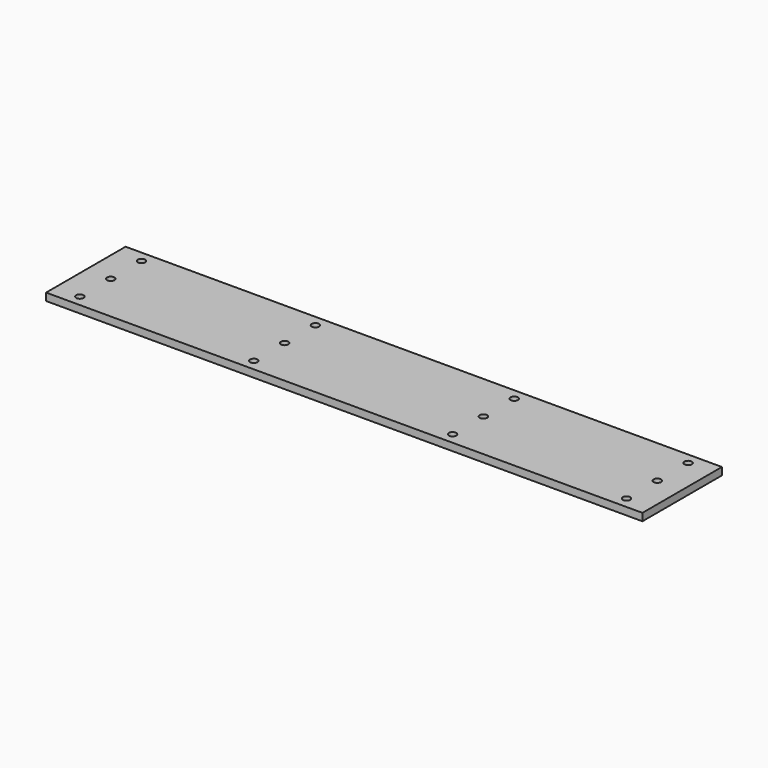
from build123d import *

# Parameters (mm, degrees)
SKETCH_W  = 240
SKETCH_H  = 40
SKETCH_R  = 1.5
PAD_DEPTH = 3


with BuildPart() as part:
    # Sketch → Pad (new body)
    with BuildSketch(Plane.XY):
        with Locations((120, -20)):
            Rectangle(SKETCH_W, SKETCH_H)
        with Locations((10, -4.5)):
            Circle(SKETCH_R, mode=Mode.SUBTRACT)
        with Locations((10, -20)):
            Circle(SKETCH_R, mode=Mode.SUBTRACT)
        with Locations((10, -35.5)):
            Circle(SKETCH_R, mode=Mode.SUBTRACT)
        with Locations((80, -4.5)):
            Circle(SKETCH_R, mode=Mode.SUBTRACT)
        with Locations((80, -20)):
            Circle(SKETCH_R, mode=Mode.SUBTRACT)
        with Locations((80, -35.5)):
            Circle(SKETCH_R, mode=Mode.SUBTRACT)
        with Locations((160, -4.5)):
            Circle(SKETCH_R, mode=Mode.SUBTRACT)
        with Locations((160, -20)):
            Circle(SKETCH_R, mode=Mode.SUBTRACT)
        with Locations((160, -35.5)):
            Circle(SKETCH_R, mode=Mode.SUBTRACT)
        with Locations((230, -4.5)):
            Circle(SKETCH_R, mode=Mode.SUBTRACT)
        with Locations((230, -20)):
            Circle(SKETCH_R, mode=Mode.SUBTRACT)
        with Locations((230, -35.5)):
            Circle(SKETCH_R, mode=Mode.SUBTRACT)
    extrude(amount=PAD_DEPTH)


solid = part.part
